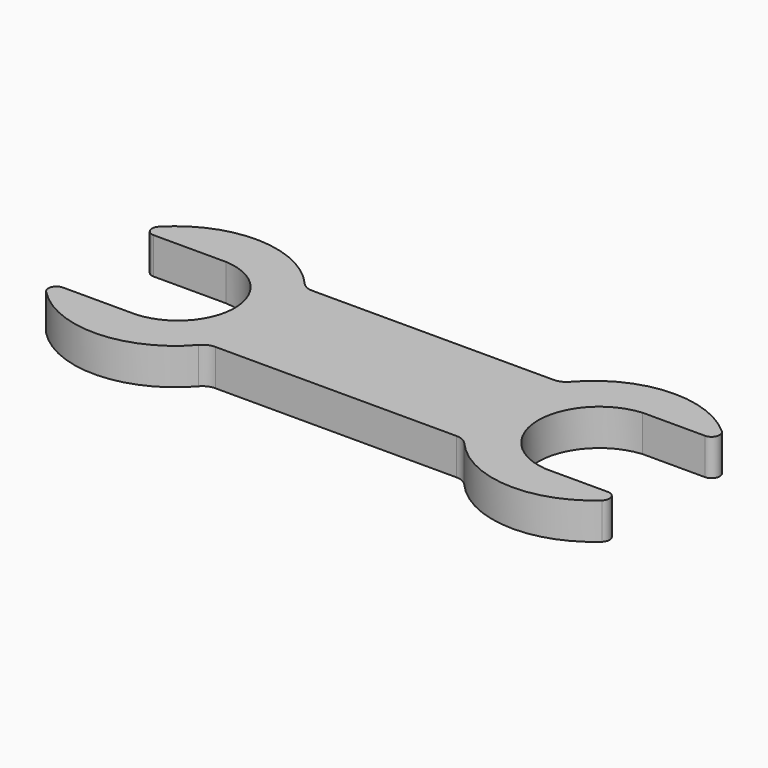
from build123d import *

# Parameters (mm, degrees)
F1_DEPTH = 114.3
F2_R     = 50.8
F3_R     = 25.4


with BuildPart() as f1:
    # F0 (on Top) → F1 (new body)
    with BuildSketch(Plane.XY):
        with BuildLine():
            Line((-42.803083, -177.8), (-305.849485, -177.8))
            ThreePointArc((-305.849485, -177.8), (-50.599354, -317.404266), (211.196917, -190.5))
            Line((211.196917, -190.5), (1016, -190.5))
            ThreePointArc((1016, -190.5), (1270, -317.5), (1524, -190.5))
            Line((1524, -190.5), (1270, -190.5))
            ThreePointArc((1270, -190.5), (1096.116526, 0), (1270, 190.5))
            Line((1270, 190.5), (1524, 190.5))
            ThreePointArc((1524, 190.5), (1270, 317.5), (1016, 190.5))
            Line((1016, 190.5), (211.196917, 190.5))
            ThreePointArc((211.196917, 190.5), (-50.599354, 317.404266), (-305.849485, 177.8))
            Line((-305.849485, 177.8), (-42.803083, 177.8))
            ThreePointArc((-42.803083, 177.8), (-34.172165, 178.009361), (-25.541248, 177.8))
            ThreePointArc((-25.541248, 177.8), (143.837196, 0), (-25.541248, -177.8))
            ThreePointArc((-25.541248, -177.8), (-34.172165, -178.009361), (-42.803083, -177.8))
        make_face()
        with BuildLine():
            Line((-25.541248, -177.8), (-42.803083, -177.8))
            ThreePointArc((-42.803083, -177.8), (-34.172165, -178.009361), (-25.541248, -177.8))
        make_face()
        with BuildLine():
            Line((-42.803083, 177.8), (-25.541248, 177.8))
            ThreePointArc((-25.541248, 177.8), (-34.172165, 178.009361), (-42.803083, 177.8))
        make_face()
    extrude(amount=F1_DEPTH)

    # F2
    f2_edges = [f1.edges().sort_by_distance(p)[0] for p in [
        (211.196917, 190.5, 57.15),
        (1016, 190.5, 57.15),
        (211.196917, -190.5, 57.15),
        (1016, -190.5, 57.15),
    ]]
    fillet(f2_edges, radius=F2_R)

    # F3
    f3_edges = [f1.edges().sort_by_distance(p)[0] for p in [
        (-305.849485, 177.8, 57.15),
        (-305.849485, -177.8, 57.15),
        (1524, 190.5, 57.15),
        (1524, -190.5, 57.15),
    ]]
    fillet(f3_edges, radius=F3_R)


solid = f1.part
